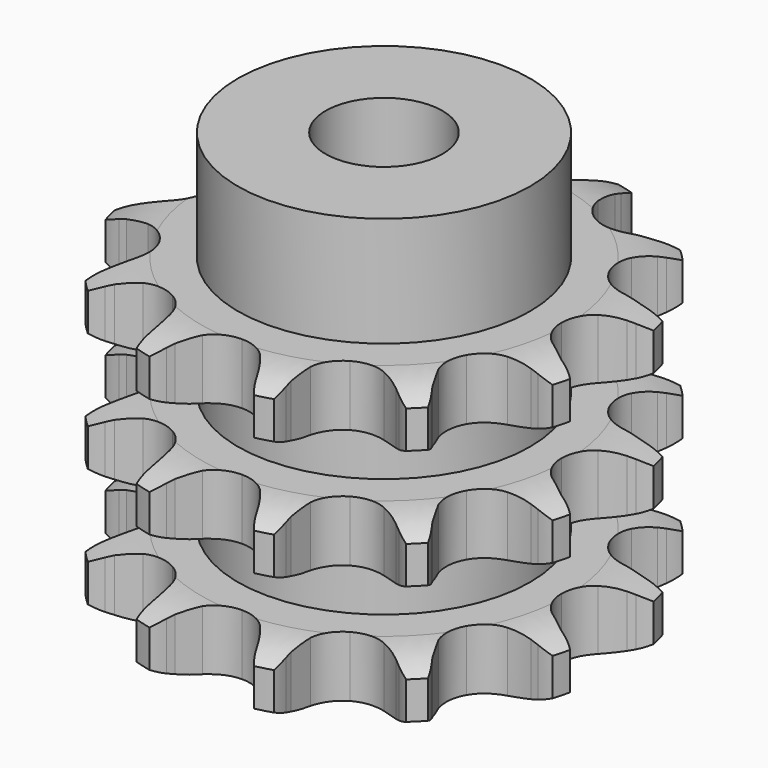
from build123d import *

# Parameters (mm, degrees)
PAD_DEPTH         = 25.6
SKETCH001_R       = 12.5
PAD001_DEPTH      = 35
SKETCH002_R       = 5
POCKET_DEPTH      = 0.001
POCKET_DEPTH_BACK = 35.001


with BuildPart() as part:
    # Sprocket → Pad (new body)
    with BuildSketch(Plane.XY):
        with BuildLine():
            ThreePointArc((-5.477307, 20.441588), (-4.527809, 19.570219), (-3.814697, 18.496767))
            Line((-3.814697, 18.496767), (-3.533665, 17.937187))
            ThreePointArc((-3.533665, 17.937187), (-3.050542, 17.100392), (-2.473538, 16.325342))
            ThreePointArc((-2.473538, 16.325342), (-1.364624, 15.474442), (0, 15.171912))
            ThreePointArc((0, 15.171912), (1.364624, 15.474442), (2.473538, 16.325342))
            ThreePointArc((2.473538, 16.325342), (3.050542, 17.100392), (3.533665, 17.937187))
            Line((3.533665, 17.937187), (3.814697, 18.496767))
            ThreePointArc((3.814697, 18.496767), (4.527809, 19.570219), (5.477307, 20.441588))
            ThreePointArc((5.477307, 20.441588), (5.863912, 19.212212), (5.944759, 17.926018))
            Line((5.944759, 17.926018), (5.908349, 17.300892))
            ThreePointArc((5.908349, 17.300892), (5.908349, 16.334644), (6.020524, 15.37493))
            ThreePointArc((6.020524, 15.37493), (6.555422, 14.083572), (7.585956, 13.139261))
            ThreePointArc((7.585956, 13.139261), (8.91902, 12.718948), (10.304818, 12.901392))
            Line((10.304818, 12.901392), (12.028838, 13.767227))
            ThreePointArc((12.028838, 13.767227), (12.28718, 13.944204), (12.552008, 14.111321))
            ThreePointArc((12.552008, 14.111321), (13.706308, 14.684402), (14.964281, 14.964281))
            ThreePointArc((14.964281, 14.964281), (14.684402, 13.706308), (14.111321, 12.552008))
            Line((14.111321, 12.552008), (13.767227, 12.028838))
            ThreePointArc((13.767227, 12.028838), (13.284103, 11.192042), (12.901392, 10.304818))
            ThreePointArc((12.901392, 10.304818), (12.718948, 8.91902), (13.139261, 7.585956))
            ThreePointArc((13.139261, 7.585956), (14.083572, 6.555422), (15.37493, 6.020524))
            Line((15.37493, 6.020524), (17.300892, 5.908349))
            ThreePointArc((17.300892, 5.908349), (17.613112, 5.932445), (17.926018, 5.944759))
            ThreePointArc((17.926018, 5.944759), (19.212212, 5.863912), (20.441588, 5.477307))
            ThreePointArc((20.441588, 5.477307), (19.570219, 4.527809), (18.496767, 3.814697))
            Line((18.496767, 3.814697), (17.937187, 3.533665))
            ThreePointArc((17.937187, 3.533665), (17.100392, 3.050542), (16.325342, 2.473538))
            ThreePointArc((16.325342, 2.473538), (15.474442, 1.364624), (15.171912, 0))
            ThreePointArc((15.171912, 0), (15.474442, -1.364624), (16.325342, -2.473538))
            Line((16.325342, -2.473538), (17.937187, -3.533665))
            ThreePointArc((17.937187, -3.533665), (18.219625, -3.668908), (18.496767, -3.814697))
            ThreePointArc((18.496767, -3.814697), (19.570219, -4.527809), (20.441588, -5.477307))
            ThreePointArc((20.441588, -5.477307), (19.212212, -5.863912), (17.926018, -5.944759))
            Line((17.926018, -5.944759), (17.300892, -5.908349))
            ThreePointArc((17.300892, -5.908349), (16.334644, -5.908349), (15.37493, -6.020524))
            ThreePointArc((15.37493, -6.020524), (14.083572, -6.555422), (13.139261, -7.585956))
            ThreePointArc((13.139261, -7.585956), (12.718948, -8.91902), (12.901392, -10.304818))
            Line((12.901392, -10.304818), (13.767227, -12.028838))
            ThreePointArc((13.767227, -12.028838), (13.944204, -12.28718), (14.111321, -12.552008))
            ThreePointArc((14.111321, -12.552008), (14.684402, -13.706308), (14.964281, -14.964281))
            ThreePointArc((14.964281, -14.964281), (13.706308, -14.684402), (12.552008, -14.111321))
            Line((12.552008, -14.111321), (12.028838, -13.767227))
            ThreePointArc((12.028838, -13.767227), (11.192042, -13.284103), (10.304818, -12.901392))
            ThreePointArc((10.304818, -12.901392), (8.91902, -12.718948), (7.585956, -13.139261))
            ThreePointArc((7.585956, -13.139261), (6.555422, -14.083572), (6.020524, -15.37493))
            Line((6.020524, -15.37493), (5.908349, -17.300892))
            ThreePointArc((5.908349, -17.300892), (5.932445, -17.613112), (5.944759, -17.926018))
            ThreePointArc((5.944759, -17.926018), (5.863912, -19.212212), (5.477307, -20.441588))
            ThreePointArc((5.477307, -20.441588), (4.527809, -19.570219), (3.814697, -18.496767))
            Line((3.814697, -18.496767), (3.533665, -17.937187))
            ThreePointArc((3.533665, -17.937187), (3.050542, -17.100392), (2.473538, -16.325342))
            ThreePointArc((2.473538, -16.325342), (1.364624, -15.474442), (0, -15.171912))
            ThreePointArc((0, -15.171912), (-1.364624, -15.474442), (-2.473538, -16.325342))
            Line((-2.473538, -16.325342), (-3.533665, -17.937187))
            ThreePointArc((-3.533665, -17.937187), (-3.668908, -18.219625), (-3.814697, -18.496767))
            ThreePointArc((-3.814697, -18.496767), (-4.527809, -19.570219), (-5.477307, -20.441588))
            ThreePointArc((-5.477307, -20.441588), (-5.863912, -19.212212), (-5.944759, -17.926018))
            Line((-5.944759, -17.926018), (-5.908349, -17.300892))
            ThreePointArc((-5.908349, -17.300892), (-5.908349, -16.334644), (-6.020524, -15.37493))
            ThreePointArc((-6.020524, -15.37493), (-6.555422, -14.083572), (-7.585956, -13.139261))
            ThreePointArc((-7.585956, -13.139261), (-8.91902, -12.718948), (-10.304818, -12.901392))
            Line((-10.304818, -12.901392), (-12.028838, -13.767227))
            ThreePointArc((-12.028838, -13.767227), (-12.28718, -13.944204), (-12.552008, -14.111321))
            ThreePointArc((-12.552008, -14.111321), (-13.706308, -14.684402), (-14.964281, -14.964281))
            ThreePointArc((-14.964281, -14.964281), (-14.684402, -13.706308), (-14.111321, -12.552008))
            Line((-14.111321, -12.552008), (-13.767227, -12.028838))
            ThreePointArc((-13.767227, -12.028838), (-13.284103, -11.192042), (-12.901392, -10.304818))
            ThreePointArc((-12.901392, -10.304818), (-12.718948, -8.91902), (-13.139261, -7.585956))
            ThreePointArc((-13.139261, -7.585956), (-14.083572, -6.555422), (-15.37493, -6.020524))
            Line((-15.37493, -6.020524), (-17.300892, -5.908349))
            ThreePointArc((-17.300892, -5.908349), (-17.613112, -5.932445), (-17.926018, -5.944759))
            ThreePointArc((-17.926018, -5.944759), (-19.212212, -5.863912), (-20.441588, -5.477307))
            ThreePointArc((-20.441588, -5.477307), (-19.570219, -4.527809), (-18.496767, -3.814697))
            Line((-18.496767, -3.814697), (-17.937187, -3.533665))
            ThreePointArc((-17.937187, -3.533665), (-17.100392, -3.050542), (-16.325342, -2.473538))
            ThreePointArc((-16.325342, -2.473538), (-15.474442, -1.364624), (-15.171912, 0))
            ThreePointArc((-15.171912, 0), (-15.474442, 1.364624), (-16.325342, 2.473538))
            Line((-16.325342, 2.473538), (-17.937187, 3.533665))
            ThreePointArc((-17.937187, 3.533665), (-18.219625, 3.668908), (-18.496767, 3.814697))
            ThreePointArc((-18.496767, 3.814697), (-19.570219, 4.527809), (-20.441588, 5.477307))
            ThreePointArc((-20.441588, 5.477307), (-19.212212, 5.863912), (-17.926018, 5.944759))
            Line((-17.926018, 5.944759), (-17.300892, 5.908349))
            ThreePointArc((-17.300892, 5.908349), (-16.334644, 5.908349), (-15.37493, 6.020524))
            ThreePointArc((-15.37493, 6.020524), (-14.083572, 6.555422), (-13.139261, 7.585956))
            ThreePointArc((-13.139261, 7.585956), (-12.718948, 8.91902), (-12.901392, 10.304818))
            Line((-12.901392, 10.304818), (-13.767227, 12.028838))
            ThreePointArc((-13.767227, 12.028838), (-13.944204, 12.28718), (-14.111321, 12.552008))
            ThreePointArc((-14.111321, 12.552008), (-14.684402, 13.706308), (-14.964281, 14.964281))
            ThreePointArc((-14.964281, 14.964281), (-13.706308, 14.684402), (-12.552008, 14.111321))
            Line((-12.552008, 14.111321), (-12.028838, 13.767227))
            ThreePointArc((-12.028838, 13.767227), (-11.192042, 13.284103), (-10.304818, 12.901392))
            ThreePointArc((-10.304818, 12.901392), (-8.91902, 12.718948), (-7.585956, 13.139261))
            ThreePointArc((-7.585956, 13.139261), (-6.555422, 14.083572), (-6.020524, 15.37493))
            Line((-6.020524, 15.37493), (-5.908349, 17.300892))
            ThreePointArc((-5.908349, 17.300892), (-5.932445, 17.613112), (-5.944759, 17.926018))
            ThreePointArc((-5.944759, 17.926018), (-5.863912, 19.212212), (-5.477307, 20.441588))
        make_face()
    extrude(amount=PAD_DEPTH)

    # Sketch → Groove (revolve, cut)
    with BuildSketch(Plane.XZ):
        with BuildLine():
            ThreePointArc((15.641101, 0), (17.877169, 0.253206), (20, 1))
            Line((20, 1), (20, 4.2))
            ThreePointArc((20, 4.2), (17.877169, 4.946794), (15.641101, 5.2))
            Line((12.5, 5.2), (15.641101, 5.2))
            Line((12.5, 5.2), (12.5, 10.2))
            Line((12.5, 10.2), (15.641101, 10.2))
            ThreePointArc((15.641101, 10.2), (17.877169, 10.453206), (20, 11.2))
            Line((20, 14.4), (20, 11.2))
            ThreePointArc((20, 14.4), (17.877169, 15.146794), (15.641101, 15.4))
            Line((12.5, 15.4), (15.641101, 15.4))
            Line((12.5, 20.4), (12.5, 15.4))
            Line((15.641101, 20.4), (12.5, 20.4))
            ThreePointArc((15.641101, 20.4), (17.877169, 20.653206), (20, 21.4))
            Line((20, 21.4), (20, 24.6))
            ThreePointArc((20, 24.6), (17.877169, 25.346794), (15.641101, 25.6))
            Line((15.641101, 25.6), (30, 25.6))
            Line((30, 25.6), (30, 0))
            Line((15.641101, 0), (30, 0))
        make_face()
    revolve(axis=Axis((0, 0, 0), (0, 0, 1)), mode=Mode.SUBTRACT)

    # Sketch001 → Pad001 (join)
    with BuildSketch(Plane.XY):
        Circle(SKETCH001_R)
    extrude(amount=PAD001_DEPTH)

    # Sketch002 → Pocket (cut, two sides)
    with BuildSketch(Plane.XY) as pocket_sk:
        Circle(SKETCH002_R)
    extrude(amount=-POCKET_DEPTH, mode=Mode.SUBTRACT)
    extrude(pocket_sk.sketch, amount=POCKET_DEPTH_BACK, mode=Mode.SUBTRACT)


solid = part.part
